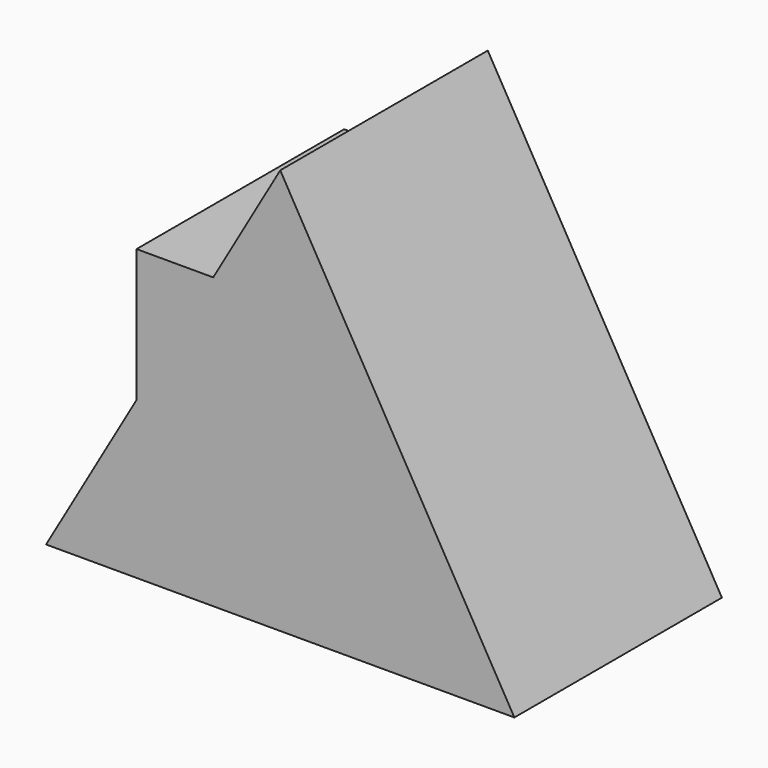
from build123d import *

# Parameters (mm, degrees)
F0_W     = 96.628905
F0_H     = 101.417847
F1_DEPTH = 127
F3_DEPTH = 127


with BuildPart() as f1:
    # F0 (on Front) → F1 (new body)
    with BuildSketch(Plane.XZ):
        with Locations((6.532389, 10.024552)):
            Rectangle(F0_W, F0_H)
    extrude(amount=F1_DEPTH)

    # F2 (on Front) → F3 (join)
    with BuildSketch(Plane.XZ):
        Polygon((-86.055711, -80.979206), (143.171892, -80.979206), (28.55809, 117.537722), align=None)
    extrude(amount=F3_DEPTH)


solid = f1.part
